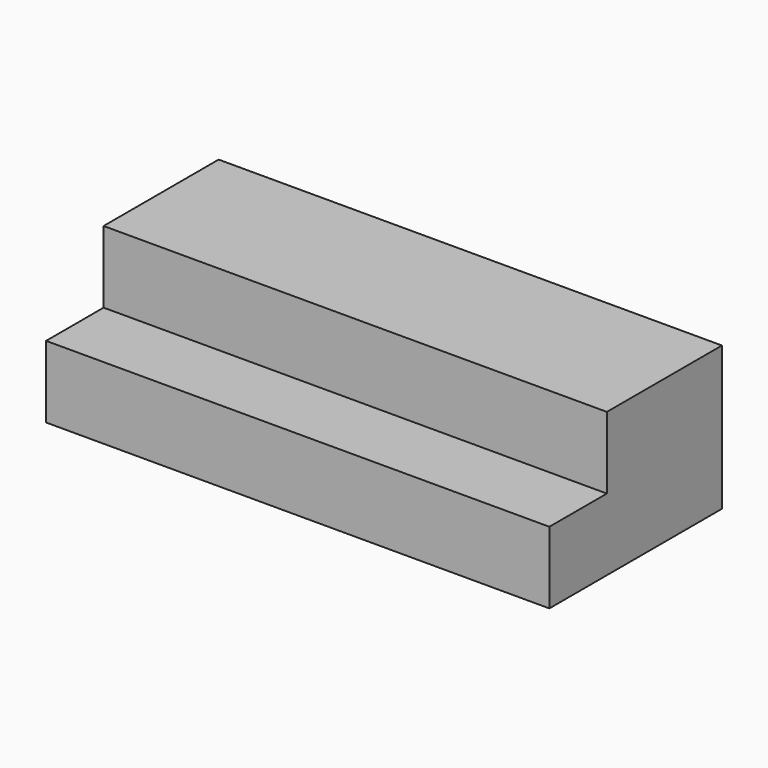
from build123d import *

# Parameters (mm, degrees)
F1_DEPTH = 25.4
F2_DEPTH = 152.4


with BuildPart() as f1:
    # F0 (on Right) → F1 (new body)
    with BuildSketch(Plane.YZ):
        Polygon((51.043449, 0), (0.243449, 0), (0.243449, -25.4), (-25.156551, -25.4), (-25.156551, -50.8), (51.043449, -50.8), align=None)
    extrude(amount=F1_DEPTH)

    # F1_face (on face) → F2 (join)
    with BuildSketch(Plane(origin=(25.4, 18.023449, -27.94), x_dir=(0, 1, 0), z_dir=(1, 0, 0))):
        Polygon((33.02, -22.86), (33.02, 27.94), (-17.78, 27.94), (-17.78, 2.54), (-43.18, 2.54), (-43.18, -22.86), align=None)
    extrude(amount=F2_DEPTH)


solid = f1.part
